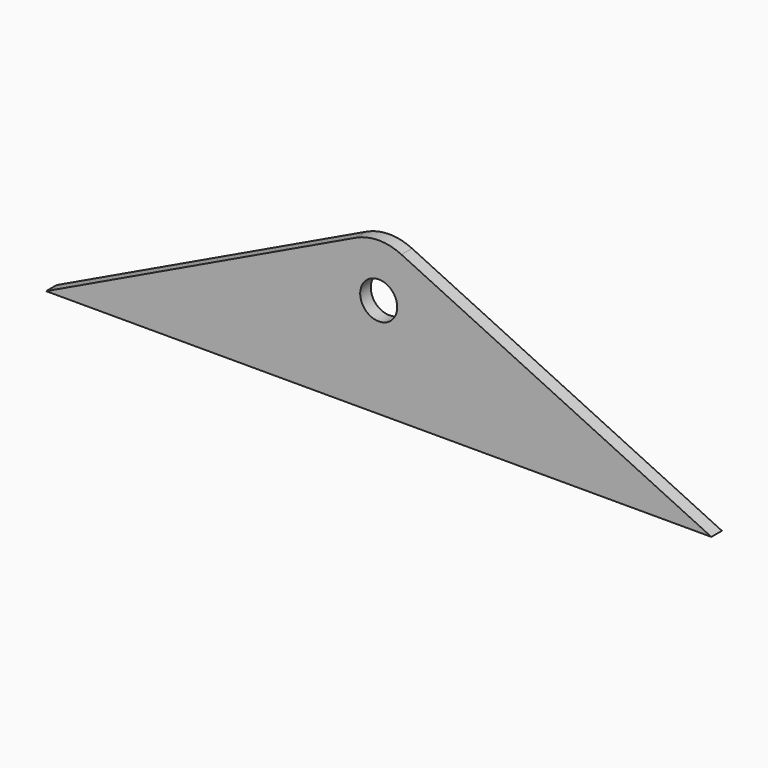
from build123d import *

# Parameters (mm, degrees)
F1_DEPTH = 12.7
F2_R     = 17.78
F3_DEPTH = 12.701


with BuildPart() as f1:
    # F0 (on Front) → F1 (new body)
    with BuildSketch(Plane.XZ):
        with BuildLine():
            Line((-21.869964, 141.968562), (-319.513245, 0))
            Line((-319.513245, 0), (319.513245, 0))
            Line((319.513245, 0), (21.869964, 141.968562))
            ThreePointArc((21.869964, 141.968562), (0, 146.91723), (-21.869964, 141.968562))
        make_face()
    extrude(amount=F1_DEPTH)

    # F2 (on face) → F3 (cut, through all)
    with BuildSketch(Plane.XZ.offset(12.7)):
        with Locations((0, 96.11723)):
            Circle(F2_R)
    extrude(amount=-F3_DEPTH, mode=Mode.SUBTRACT)


solid = f1.part
